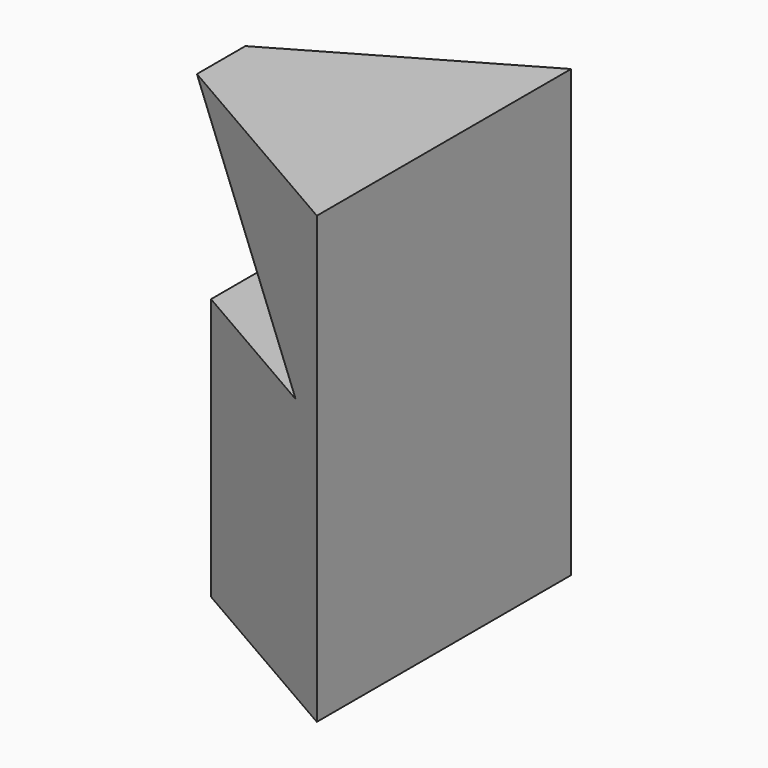
from build123d import *

# Parameters (mm, degrees)
F1_DEPTH = 85
F4_DEPTH = 120


with BuildPart() as f1:
    # F0 (on Top) → F1 (new body)
    with BuildSketch(Plane.XY):
        Polygon((17.5, 30.310889), (-35, 0), (17.5, -30.310889), align=None)
    extrude(amount=F1_DEPTH)

    # F3 (on offset) → F4 (cut)
    with BuildSketch(Plane.XZ.offset(70)):
        Polygon((-44.77262, 0), (-20, 0), (-20, 50), (10, 50), (-25.159609, 85.159609), (-42.797305, 85.159609), align=None)
    extrude(amount=-F4_DEPTH, mode=Mode.SUBTRACT)


solid = f1.part
